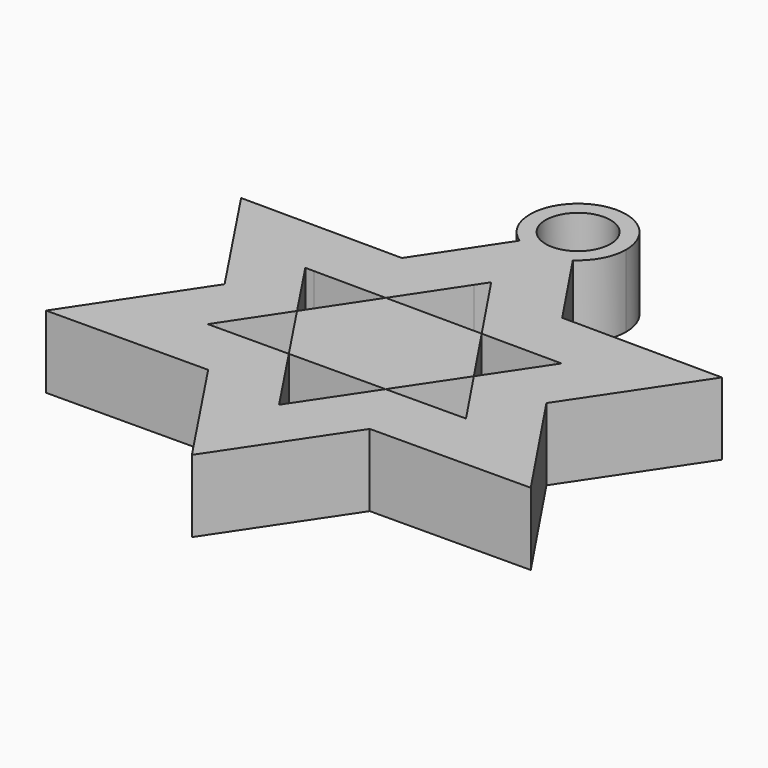
from build123d import *

# Parameters (mm, degrees)
F1_DEPTH = 6


with BuildPart() as f1:
    # F0 (on Top) → F1 (new body)
    with BuildSketch(Plane.XY):
        Polygon((-6.6222884523, 10.0331163724), (-19.9994960478, 10.100266872), (-13.2885838739, 0), (-10.2870570193, 4.5174517964), (-10.6430481273, 5.0532366646), (-9.9334326785, 5.0496745586), align=None)
        with BuildLine():
            Line((-2.2008863986, 16.6875531366), (-6.6222884523, 10.0331163724))
            Line((-6.6222884523, 10.0331163724), (-0.6391900602, 10.0030825972))
            Line((-0.6391900602, 10.0030825972), (0.0139746531, 10.9861289766))
            Line((0.0139746531, 10.9861289766), (0.6759581834, 9.996480856))
            Line((0.6759581834, 9.996480856), (6.7117004327, 9.9661828208))
            Line((6.7117004327, 9.9661828208), (2.2111466966, 16.6943933311))
            ThreePointArc((2.2111466966, 16.6943933311), (0.0061656706, 16.0230454934), (-2.2008863986, 16.6875531366))
        make_face()
        Polygon((20, 9.899478619), (6.7117004327, 9.9661828208), (10.067550649, 4.9492742312), (10.6712659717, 4.9462437194), (10.3704218772, 4.4964896407), (13.378159703, 0), align=None)
        Polygon((6.7117004327, 9.9661828208), (0.6759581834, 9.996480856), (4.0318083997, 4.9795722664), (10.067550649, 4.9492742312), align=None)
        Polygon((10.3704218772, 4.4964896407), (7.3626840514, 0), (10.3704218772, -4.4964896407), (13.378159703, 0), align=None)
        Polygon((10.067550649, -4.9492742312), (6.7117004327, -9.9661828208), (20, -9.899478619), (13.378159703, 0), (10.3704218772, -4.4964896407), (10.6712659717, -4.9462437194), align=None)
        Polygon((10.067550649, -4.9492742312), (4.0318083997, -4.9795722664), (0.6759581834, -9.996480856), (6.7117004327, -9.9661828208), align=None)
        Polygon((-0.6391900602, -10.0030825972), (-6.6222884523, -10.0331163724), (0, -20), (6.7117004327, -9.9661828208), (0.6759581834, -9.996480856), (0.0139746531, -10.9861289766), align=None)
        Polygon((-10.2870570193, -4.5174517964), (-13.2885838739, 0), (-19.9994960478, -10.100266872), (-6.6222884523, -10.0331163724), (-9.9334326785, -5.0496745586), (-10.6430481273, -5.0532366646), align=None)
        Polygon((-9.9334326785, -5.0496745586), (-6.6222884523, -10.0331163724), (-0.6391900602, -10.0030825972), (-3.9503342863, -5.0196407834), align=None)
        Polygon((-10.2870570193, 4.5174517964), (-13.2885838739, 0), (-10.2870570193, -4.5174517964), (-7.2855301647, 0), align=None)
        Polygon((-0.6391900602, 10.0030825972), (-6.6222884523, 10.0331163724), (-9.9334326785, 5.0496745586), (-3.9503342863, 5.0196407834), align=None)
        with BuildLine():
            ThreePointArc((3.976959286, 20), (-1.8792777286, 23.5049280138), (-2.2008863986, 16.6875531366))
            Line((-2.2008863986, 16.6875531366), (-1.4876022169, 17.7610823983))
            ThreePointArc((-1.4876022169, 17.7610823983), (-1.2702235412, 22.3690176315), (2.6880685227, 20))
            ThreePointArc((2.6880685227, 20), (2.3709840728, 18.7334507869), (1.4945372599, 17.7657057576))
            Line((1.4945372599, 17.7657057576), (2.2111466966, 16.6943933311))
            ThreePointArc((2.2111466966, 16.6943933311), (3.5078373359, 18.1261583878), (3.976959286, 20))
        make_face()
        with BuildLine():
            Line((-1.4876022169, 17.7610823983), (-2.2008863986, 16.6875531366))
            ThreePointArc((-2.2008863986, 16.6875531366), (0.0061656706, 16.0230454934), (2.2111466966, 16.6943933311))
            Line((2.2111466966, 16.6943933311), (1.4945372599, 17.7657057576))
            ThreePointArc((1.4945372599, 17.7657057576), (0.0041674415, 17.3119347078), (-1.4876022169, 17.7610823983))
        make_face()
    extrude(amount=F1_DEPTH)


with BuildPart() as f1b:
    # F0 (on Top) → F1, piece 2 (new body)
    with BuildSketch(Plane.XY):
        Polygon((4.0318083997, 4.9795722664), (-3.9503342863, 5.0196407834), (-7.2855301647, 0), (-3.9503342863, -5.0196407834), (4.0318083997, -4.9795722664), (7.3626840514, 0), align=None)
    extrude(amount=F1_DEPTH)


solid = Compound([f1.part, f1b.part])
